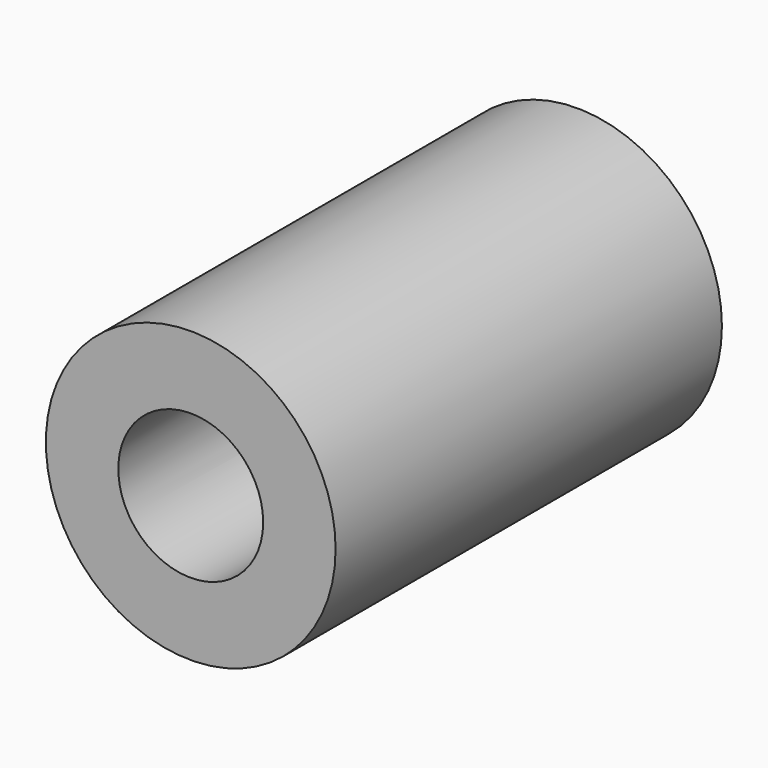
from build123d import *

# Parameters (mm, degrees)
F0_R     = 3
F0_R_2   = 1.5
F1_DEPTH = 10
F3_D     = 2.5
F3_DEPTH = 4
F3_TIP   = 0.7510757738


with BuildPart() as f1:
    # F0 (on Front) → F1 (new body)
    with BuildSketch(Plane.XZ):
        Circle(F0_R)
        Circle(F0_R_2, mode=Mode.SUBTRACT)
    extrude(amount=F1_DEPTH)

    # F3 (one way)
    with BuildSketch(Plane.XY):
        with Locations((0, -5)):
            Circle(F3_D / 2)
    extrude(amount=-F3_DEPTH, mode=Mode.SUBTRACT)
    with Locations(Plane.XY):
        with Locations((0, -5)):
            with Locations((0, 0, -(F3_DEPTH + F3_TIP / 2))):  # 118° drill point
                Cone(0, F3_D / 2, F3_TIP, mode=Mode.SUBTRACT)


solid = f1.part
